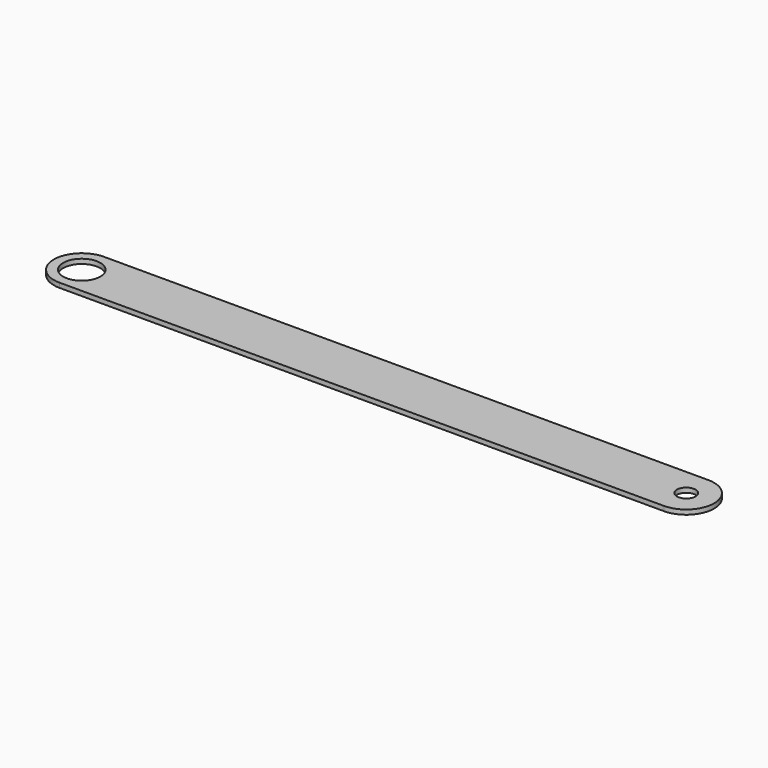
from build123d import *

# Parameters (mm, degrees)
F0_R     = 2
F0_R_2   = 1
F1_DEPTH = 0.25


with BuildPart() as f1:
    # F0 (on Top) → F1 (new body, symmetric)
    with BuildSketch(Plane.XY):
        with BuildLine():
            ThreePointArc((-32.5, 6), (-35.5, 3), (-32.5, 0))
            Line((-32.5, 0), (32.5, 0))
            ThreePointArc((32.5, 0), (35.5, 3), (32.5, 6))
            Line((32.5, 6), (-32.5, 6))
        make_face()
        with Locations((-32.5, 3)):
            Circle(F0_R, mode=Mode.SUBTRACT)
        with Locations((32.5, 3)):
            Circle(F0_R_2, mode=Mode.SUBTRACT)
    extrude(amount=F1_DEPTH, both=True)


solid = f1.part
